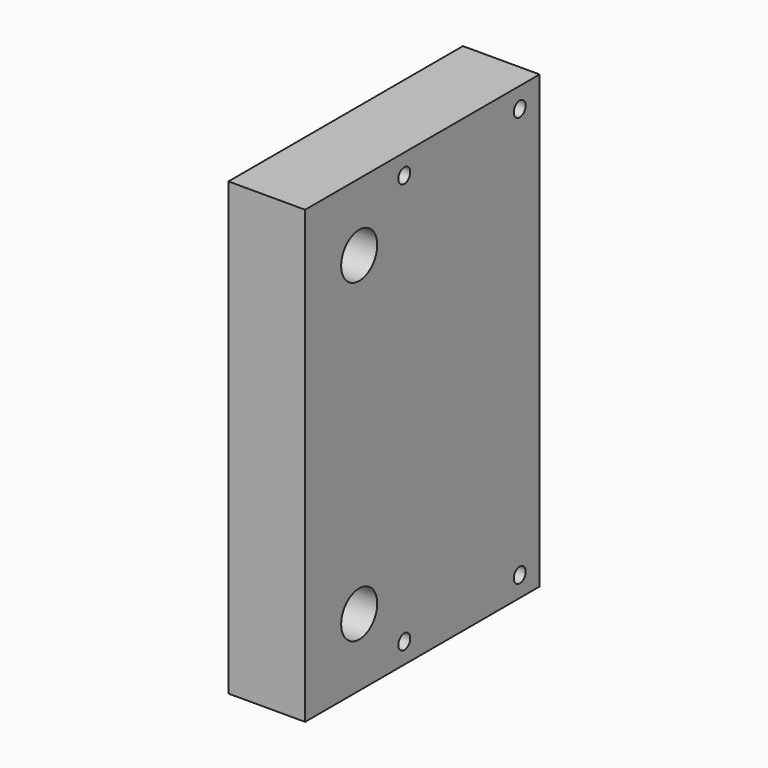
from build123d import *

# Parameters (mm, degrees)
F1_DEPTH = 17
F2_D     = 3.3
F3_W     = 22
F3_H     = 100
F3_R     = 5
F4_DEPTH = 17


with BuildPart() as f1:
    # F0 (on Right) → F1 (new body)
    with BuildSketch(Plane.YZ):
        Polygon((43, 100), (0, 100), (0, 0), (43, 0), (43, 33), (43, 67), align=None)
    extrude(amount=-F1_DEPTH)

    # F2 (through all)
    with Locations(Plane.YZ):
        with Locations((37.5, 4.5), (5.5, 4.5), (5.5, 95.5), (37.5, 95.5)):
            Hole(F2_D / 2)

    # F3 (on face) → F4 (join, through all)
    with BuildSketch(Plane(origin=(-17, 0, 0), x_dir=(0, -1, 0), z_dir=(-1, 0, 0))):
        with Locations((11, 50)):
            Rectangle(F3_W, F3_H)
        with Locations((7, 15)):
            Circle(F3_R, mode=Mode.SUBTRACT)
        with Locations((7, 85)):
            Circle(F3_R, mode=Mode.SUBTRACT)
    extrude(amount=-F4_DEPTH)


solid = f1.part
